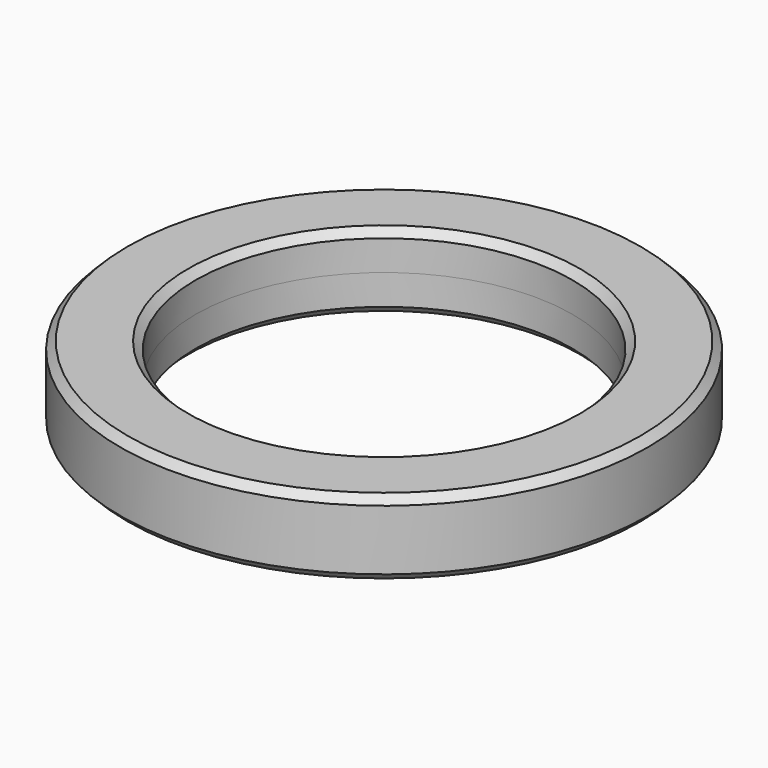
from build123d import *

# Parameters (mm, degrees)
F0_R     = 88.9
F0_R_2   = 63.5
F1_DEPTH = 12.7
F2_SIZE  = 2.54


with BuildPart() as f1:
    # F0 (on Top) → F1 (new body)
    with BuildSketch(Plane.XY):
        Circle(F0_R)
        Circle(F0_R_2, mode=Mode.SUBTRACT)
    extrude(amount=F1_DEPTH)

    # F2
    f2_edges = [f1.edges().sort_by_distance(p)[0] for p in [
        (-88.9, 0, 12.7),
        (-63.5, 0, 12.7),
    ]]
    chamfer(f2_edges, length=F2_SIZE)

    # F3: F1 across face


with BuildPart() as f1_1:
    add(f1.part)
    add(f1.part.mirror(Plane(origin=(0, 0, 0), x_dir=(1, 0, 0), z_dir=(0, 0, -1))))


solid = f1_1.part
